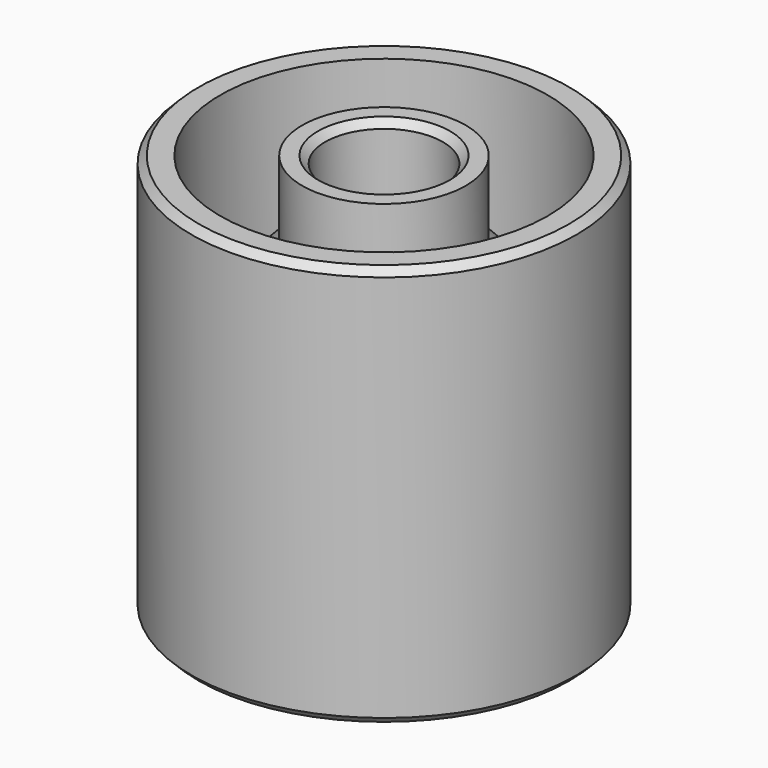
from build123d import *

# Parameters (mm, degrees)
SKETCH001_R        = 2.6
POCKET_DEPTH       = 122.244939
POLARPATTERN_COUNT = 7
CHAMFER_SIZE       = 0.5
CHAMFER001_SIZE    = 0.5


with BuildPart() as part:
    # Sketch → Revolution (revolve)
    with BuildSketch(Plane.XZ):
        Polygon((11.8, 13.7), (11.8, 14.3), (4.1, 22), (4.1, 28), (5.7, 28), (5.7, 22.7), (11.4, 17), (11.4, 28), (13.4, 28), (13.4, 0), (11.4, 0), (11.4, 11), (5.7, 5.3), (5.7, 0), (4.1, 0), (4.1, 6), align=None)
    revolve(axis=Axis((0, 0, 0), (0, 0, 1)))

    # Sketch001 (on Face8 of Revolution) → Pocket (cut, through all)
    with BuildSketch(Plane(origin=(0, 0, 28), x_dir=(-1, 0, 0), z_dir=(0, 0, 1))):
        with Locations((8.5, 0)):
            Circle(SKETCH001_R)
    pocket = extrude(amount=-POCKET_DEPTH, mode=Mode.SUBTRACT)

    # PolarPattern: Pocket ×7 about axis
    polarpattern_axis = Axis((0, 0, 28), (0, 0, 1))
    for i in range(1, POLARPATTERN_COUNT):
        add(pocket.rotate(polarpattern_axis, i * 360 / POLARPATTERN_COUNT), mode=Mode.SUBTRACT)

    # Chamfer
    chamfer_edges = [part.edges().sort_by_distance(p)[0] for p in [
        (-4.1, 0, 28),
        (-4.1, 0, 0),
    ]]
    chamfer(chamfer_edges, length=CHAMFER_SIZE)

    # Chamfer001
    chamfer001_edges = [part.edges().sort_by_distance(p)[0] for p in [
        (-13.4, 0, 28),
        (-13.4, 0, 0),
    ]]
    chamfer(chamfer001_edges, length=CHAMFER001_SIZE)


solid = part.part
